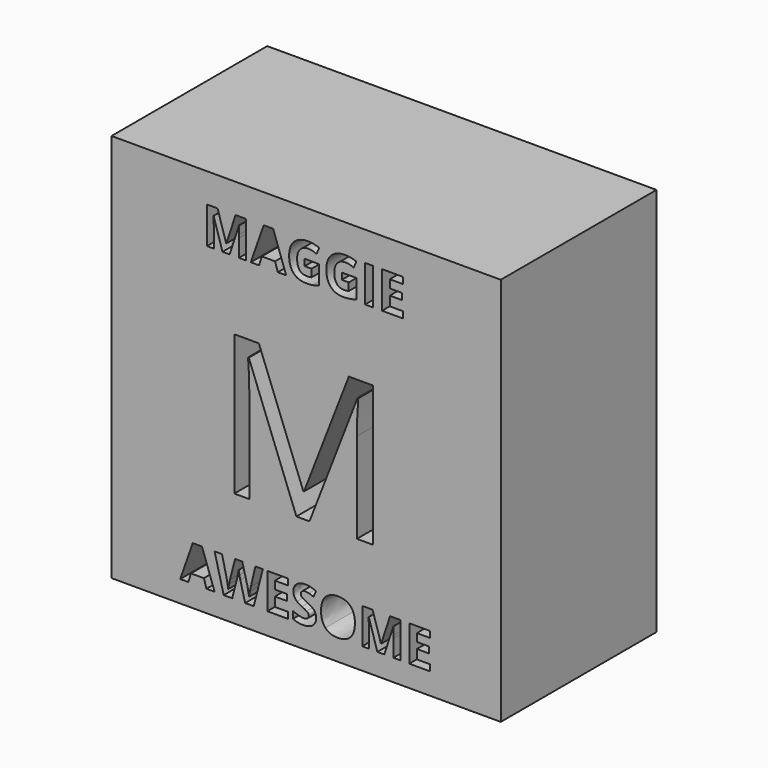
from build123d import *

# Parameters (mm, degrees)
F0_W     = 25.4
F0_H     = 25.4
F0_W_2   = 0.5068648255
F0_H_2   = 2.3899539604
F1_DEPTH = 12.7


with BuildPart() as f1:
    # F0 (on Front) → F1 (new body)
    with BuildSketch(Plane.XZ):
        Rectangle(F0_W, F0_H)
        Polygon((-5.9738395503, -11.2961307168), (-6.5043327995, -11.2961307168), (-6.6725255826, -10.7432795145), (-7.5190789861, -10.7432795145), (-7.6872717691, -11.2961307168), (-8.2177650183, -11.2961307168), (-7.3981427856, -8.9648059778), (-6.7965105948, -8.9648059778), align=None, mode=Mode.SUBTRACT)
        with BuildLine():
            Line((-2.8294983373, -8.9744605484), (-3.4204596868, -11.2961307168))
            Line((-3.4204596868, -11.2961307168), (-3.9809329185, -11.2961307168))
            Line((-3.9809329185, -11.2961307168), (-4.2954686669, -10.0766060059))
            add(Edge.make_bspline(
                [(-4.2954686669, -10.0766060059), (-4.312745267, -10.011564688), (-4.3549204966, -9.8075483666)],
                knots=[0, 0, 0, 1, 1, 1], degree=2))
            add(Edge.make_bspline(
                [(-4.3549204966, -9.8075483666), (-4.3970957261, -9.6035320451), (-4.4031933497, -9.5334093742)],
                knots=[0, 0, 0, 1, 1, 1], degree=2))
            add(Edge.make_bspline(
                [(-4.4031933497, -9.5334093742), (-4.4128479203, -9.6192842393), (-4.4509580675, -9.8090727724)],
                knots=[0, 0, 0, 1, 1, 1], degree=2))
            add(Edge.make_bspline(
                [(-4.4509580675, -9.8090727724), (-4.4890682148, -9.9988613056), (-4.5099017619, -10.0796548177)],
                knots=[0, 0, 0, 1, 1, 1], degree=2))
            Line((-4.5099017619, -10.0796548177), (-4.8224049691, -11.2961307168))
            Line((-4.8224049691, -11.2961307168), (-5.3813537949, -11.2961307168))
            Line((-5.3813537949, -11.2961307168), (-5.9738395503, -8.9744605484))
            Line((-5.9738395503, -8.9744605484), (-5.489586613, -8.9744605484))
            Line((-5.489586613, -8.9744605484), (-5.1923274647, -10.2417499772))
            add(Edge.make_bspline(
                [(-5.1923274647, -10.2417499772), (-5.1145827644, -10.5928714668), (-5.0800295642, -10.8499879267)],
                knots=[0, 0, 0, 1, 1, 1], degree=2))
            add(Edge.make_bspline(
                [(-5.0800295642, -10.8499879267), (-5.0703749936, -10.759539844), (-5.0360758611, -10.5697513109)],
                knots=[0, 0, 0, 1, 1, 1], degree=2))
            add(Edge.make_bspline(
                [(-5.0360758611, -10.5697513109), (-5.0017767286, -10.3799627777), (-4.9717967462, -10.2752869067)],
                knots=[0, 0, 0, 1, 1, 1], degree=2))
            Line((-4.9717967462, -10.2752869067), (-4.6333786389, -8.9744605484))
            Line((-4.6333786389, -8.9744605484), (-4.1684348428, -8.9744605484))
            Line((-4.1684348428, -8.9744605484), (-3.8300167356, -10.2752869067))
            add(Edge.make_bspline(
                [(-3.8300167356, -10.2752869067), (-3.8076587825, -10.3621780424), (-3.7743759206, -10.5418038696)],
                knots=[0, 0, 0, 1, 1, 1], degree=2))
            add(Edge.make_bspline(
                [(-3.7743759206, -10.5418038696), (-3.7410930587, -10.7214296968), (-3.7238164587, -10.8499879267)],
                knots=[0, 0, 0, 1, 1, 1], degree=2))
            add(Edge.make_bspline(
                [(-3.7238164587, -10.8499879267), (-3.7080642645, -10.7260029145), (-3.673002929, -10.5410416666)],
                knots=[0, 0, 0, 1, 1, 1], degree=2))
            add(Edge.make_bspline(
                [(-3.673002929, -10.5410416666), (-3.6379415936, -10.3560804188), (-3.609486017, -10.2417499772)],
                knots=[0, 0, 0, 1, 1, 1], degree=2))
            Line((-3.609486017, -10.2417499772), (-3.3142594099, -8.9744605484))
            Line((-3.3142594099, -8.9744605484), (-2.8294983373, -8.9744605484))
        make_face(mode=Mode.SUBTRACT)
        Polygon((-1.2004165777, -10.8896224798), (-1.2004165777, -11.2961307168), (-2.537320542, -11.2961307168), (-2.537320542, -8.9744605484), (-1.2004165777, -8.9744605484), (-1.2004165777, -9.3779199736), (-2.04493744, -9.3779199736), (-2.04493744, -9.8875796757), (-1.2588521367, -9.8875796757), (-1.2588521367, -10.2910391009), (-2.04493744, -10.2910391009), (-2.04493744, -10.8896224798), align=None, mode=Mode.SUBTRACT)
        with BuildLine():
            add(Edge.make_bspline(
                [(0.5335951206, -10.2679189449), (0.6542772535, -10.4241705485), (0.6542772535, -10.6513070259)],
                knots=[0, 0, 0, 1, 1, 1], degree=2))
            add(Edge.make_bspline(
                [(0.6542772535, -10.6513070259), (0.6542772535, -10.9658427743), (0.427902979, -11.1469930074)],
                knots=[0, 0, 0, 1, 1, 1], degree=2))
            add(Edge.make_bspline(
                [(0.427902979, -11.1469930074), (0.2015287046, -11.3281432405), (-0.2014225853, -11.3281432405)],
                knots=[0, 0, 0, 1, 1, 1], degree=2))
            add(Edge.make_bspline(
                [(-0.2014225853, -11.3281432405), (-0.5733776222, -11.3281432405), (-0.8589496586, -11.1878978987)],
                knots=[0, 0, 0, 1, 1, 1], degree=2))
            Line((-0.8589496586, -11.1878978987), (-0.8589496586, -10.7305761321))
            add(Edge.make_bspline(
                [(-0.8589496586, -10.7305761321), (-0.6241911518, -10.8357601384), (-0.4613337893, -10.8784435033)],
                knots=[0, 0, 0, 1, 1, 1], degree=2))
            add(Edge.make_bspline(
                [(-0.4613337893, -10.8784435033), (-0.2984764269, -10.9211268682), (-0.1633124381, -10.9211268682)],
                knots=[0, 0, 0, 1, 1, 1], degree=2))
            add(Edge.make_bspline(
                [(-0.1633124381, -10.9211268682), (-0.0017254139, -10.9211268682), (0.0849116541, -10.8593884297)],
                knots=[0, 0, 0, 1, 1, 1], degree=2))
            add(Edge.make_bspline(
                [(0.0849116541, -10.8593884297), (0.1715487221, -10.7976499912), (0.1715487221, -10.6751893848)],
                knots=[0, 0, 0, 1, 1, 1], degree=2))
            add(Edge.make_bspline(
                [(0.1715487221, -10.6751893848), (0.1715487221, -10.6070992551), (0.1334385749, -10.553745049)],
                knots=[0, 0, 0, 1, 1, 1], degree=2))
            add(Edge.make_bspline(
                [(0.1334385749, -10.553745049), (0.0953284277, -10.5003908429), (0.0213947421, -10.4513557869)],
                knots=[0, 0, 0, 1, 1, 1], degree=2))
            add(Edge.make_bspline(
                [(0.0213947421, -10.4513557869), (-0.0525389435, -10.4023207308), (-0.2796754209, -10.2940879127)],
                knots=[0, 0, 0, 1, 1, 1], degree=2))
            add(Edge.make_bspline(
                [(-0.2796754209, -10.2940879127), (-0.4920759748, -10.1939852593), (-0.5985303193, -10.1020127707)],
                knots=[0, 0, 0, 1, 1, 1], degree=2))
            add(Edge.make_bspline(
                [(-0.5985303193, -10.1020127707), (-0.7049846639, -10.0100402821), (-0.7685015759, -9.8875796757)],
                knots=[0, 0, 0, 1, 1, 1], degree=2))
            add(Edge.make_bspline(
                [(-0.7685015759, -9.8875796757), (-0.8320184879, -9.7651190693), (-0.8320184879, -9.6020076392)],
                knots=[0, 0, 0, 1, 1, 1], degree=2))
            add(Edge.make_bspline(
                [(-0.8320184879, -9.6020076392), (-0.8320184879, -9.2935695144), (-0.6231748812, -9.1175006343)],
                knots=[0, 0, 0, 1, 1, 1], degree=2))
            add(Edge.make_bspline(
                [(-0.6231748812, -9.1175006343), (-0.4143312744, -8.9414317542), (-0.0459331847, -8.9414317542)],
                knots=[0, 0, 0, 1, 1, 1], degree=2))
            add(Edge.make_bspline(
                [(-0.0459331847, -8.9414317542), (0.1349629808, -8.9414317542), (0.2993447491, -8.984115119)],
                knots=[0, 0, 0, 1, 1, 1], degree=2))
            add(Edge.make_bspline(
                [(0.2993447491, -8.984115119), (0.4637265174, -9.0267984839), (0.643098277, -9.1045431842)],
                knots=[0, 0, 0, 1, 1, 1], degree=2))
            Line((0.643098277, -9.1045431842), (0.4845600646, -9.4876771976))
            add(Edge.make_bspline(
                [(0.4845600646, -9.4876771976), (0.2985825461, -9.4114569032), (0.1771382103, -9.381222853)],
                knots=[0, 0, 0, 1, 1, 1], degree=2))
            add(Edge.make_bspline(
                [(0.1771382103, -9.381222853), (0.0556938746, -9.3509888029), (-0.0616853789, -9.3509888029)],
                knots=[0, 0, 0, 1, 1, 1], degree=2))
            add(Edge.make_bspline(
                [(-0.0616853789, -9.3509888029), (-0.2014225853, -9.3509888029), (-0.2761184739, -9.4160301208)],
                knots=[0, 0, 0, 1, 1, 1], degree=2))
            add(Edge.make_bspline(
                [(-0.2761184739, -9.4160301208), (-0.3508143624, -9.4810714387), (-0.3508143624, -9.5857473098)],
                knots=[0, 0, 0, 1, 1, 1], degree=2))
            add(Edge.make_bspline(
                [(-0.3508143624, -9.5857473098), (-0.3508143624, -9.6507886277), (-0.3205803123, -9.6993155485)],
                knots=[0, 0, 0, 1, 1, 1], degree=2))
            add(Edge.make_bspline(
                [(-0.3205803123, -9.6993155485), (-0.2903462622, -9.7478424692), (-0.2245427413, -9.7930665106)],
                knots=[0, 0, 0, 1, 1, 1], degree=2))
            add(Edge.make_bspline(
                [(-0.2245427413, -9.7930665106), (-0.1587392204, -9.838290552), (0.0871982629, -9.9556698054)],
                knots=[0, 0, 0, 1, 1, 1], degree=2))
            add(Edge.make_bspline(
                [(0.0871982629, -9.9556698054), (0.4129129878, -10.1116673413), (0.5335951206, -10.2679189449)],
                knots=[0, 0, 0, 1, 1, 1], degree=2))
        make_face(mode=Mode.SUBTRACT)
        with BuildLine():
            Line((0.2190144551, -5.2358102985), (-0.6381201492, -5.2358102985))
            Line((-0.6381201492, -5.2358102985), (-3.7422291134, 2.8749260273))
            Line((-3.7422291134, 2.8749260273), (-3.792295387, 2.8749260273))
            add(Edge.make_bspline(
                [(-3.792295387, 2.8749260273), (-3.7041787455, 1.9116509229), (-3.7041787455, 0.5838933466)],
                knots=[0, 0, 0, 1, 1, 1], degree=2))
            Line((-3.7041787455, 0.5838933466), (-3.7041787455, -5.2358102985))
            Line((-3.7041787455, -5.2358102985), (-4.6874803593, -5.2358102985))
            Line((-4.6874803593, -5.2358102985), (-4.6874803593, 3.9143018676))
            Line((-4.6874803593, 3.9143018676), (-3.0853596036, 3.9143018676))
            Line((-3.0853596036, 3.9143018676), (-0.1875236867, -3.6336895428))
            Line((-0.1875236867, -3.6336895428), (-0.1374574131, -3.6336895428))
            Line((-0.1374574131, -3.6336895428), (2.7844103151, 3.9143018676))
            Line((2.7844103151, 3.9143018676), (4.3745151652, 3.9143018676))
            Line((4.3745151652, 3.9143018676), (4.3745151652, -5.2358102985))
            Line((4.3745151652, -5.2358102985), (3.3111075136, -5.2358102985))
            Line((3.3111075136, -5.2358102985), (3.3111075136, 0.6599940825))
            add(Edge.make_bspline(
                [(3.3111075136, 0.6599940825), (3.3111075136, 1.6733354605), (3.3992241551, 2.8629101216)],
                knots=[0, 0, 0, 1, 1, 1], degree=2))
            Line((3.3992241551, 2.8629101216), (3.3491578815, 2.8629101216))
            Line((3.3491578815, 2.8629101216), (0.2190144551, -5.2358102985))
        make_face(mode=Mode.SUBTRACT)
        with BuildLine():
            add(Edge.make_bspline(
                [(2.8987108568, -9.2460588642), (3.1822503521, -9.5542429214), (3.1822503521, -10.1319927532)],
                knots=[0, 0, 0, 1, 1, 1], degree=2))
            add(Edge.make_bspline(
                [(3.1822503521, -10.1319927532), (3.1822503521, -10.7087263144), (2.896424248, -11.0184347774)],
                knots=[0, 0, 0, 1, 1, 1], degree=2))
            add(Edge.make_bspline(
                [(2.896424248, -11.0184347774), (2.6105981439, -11.3281432405), (2.0770560829, -11.3281432405)],
                knots=[0, 0, 0, 1, 1, 1], degree=2))
            add(Edge.make_bspline(
                [(2.0770560829, -11.3281432405), (1.5435140219, -11.3281432405), (1.2576879177, -11.0184347774)],
                knots=[0, 0, 0, 1, 1, 1], degree=2))
            add(Edge.make_bspline(
                [(1.2576879177, -11.0184347774), (0.9718618136, -10.7087263144), (0.9718618136, -10.1289439414)],
                knots=[0, 0, 0, 1, 1, 1], degree=2))
            add(Edge.make_bspline(
                [(0.9718618136, -10.1289439414), (0.9718618136, -9.5491615684), (1.2584501207, -9.2435181878)],
                knots=[0, 0, 0, 1, 1, 1], degree=2))
            add(Edge.make_bspline(
                [(1.2584501207, -9.2435181878), (1.5450384277, -8.9378748071), (2.0801048947, -8.9378748071)],
                knots=[0, 0, 0, 1, 1, 1], degree=2))
            add(Edge.make_bspline(
                [(2.0801048947, -8.9378748071), (2.6151713616, -8.9378748071), (2.8987108568, -9.2460588642)],
                knots=[0, 0, 0, 1, 1, 1], degree=2))
        make_face(mode=Mode.SUBTRACT)
        with BuildLine():
            Line((5.0974122836, -11.2961307168), (4.6461881405, -11.2961307168))
            Line((4.6461881405, -11.2961307168), (4.0872393147, -9.4749738152))
            Line((4.0872393147, -9.4749738152), (4.0730115264, -9.4749738152))
            add(Edge.make_bspline(
                [(4.0730115264, -9.4749738152), (4.1034996442, -10.0303656939), (4.1034996442, -10.2163432124)],
                knots=[0, 0, 0, 1, 1, 1], degree=2))
            Line((4.1034996442, -10.2163432124), (4.1034996442, -11.2961307168))
            Line((4.1034996442, -11.2961307168), (3.6634544776, -11.2961307168))
            Line((3.6634544776, -11.2961307168), (3.6634544776, -8.9744605484))
            Line((3.6634544776, -8.9744605484), (4.3336849333, -8.9744605484))
            Line((4.3336849333, -8.9744605484), (4.8829791886, -10.7498852734))
            Line((4.8829791886, -10.7498852734), (4.8926337592, -10.7498852734))
            Line((4.8926337592, -10.7498852734), (5.4754649439, -8.9744605484))
            Line((5.4754649439, -8.9744605484), (6.1451872643, -8.9744605484))
            Line((6.1451872643, -8.9744605484), (6.1451872643, -11.2961307168))
            Line((6.1451872643, -11.2961307168), (5.6863410919, -11.2961307168))
            Line((5.6863410919, -11.2961307168), (5.6863410919, -10.1970340711))
            add(Edge.make_bspline(
                [(5.6863410919, -10.1970340711), (5.6863410919, -10.1192893708), (5.6888817683, -10.0176623115)],
                knots=[0, 0, 0, 1, 1, 1], degree=2))
            add(Edge.make_bspline(
                [(5.6888817683, -10.0176623115), (5.6914224448, -9.9160352523), (5.7102234508, -9.478022627)],
                knots=[0, 0, 0, 1, 1, 1], degree=2))
            Line((5.7102234508, -9.478022627), (5.6959956625, -9.478022627))
            Line((5.6959956625, -9.478022627), (5.0974122836, -11.2961307168))
        make_face(mode=Mode.SUBTRACT)
        Polygon((8.0664468193, -10.8896224798), (8.0664468193, -11.2961307168), (6.729542855, -11.2961307168), (6.729542855, -8.9744605484), (8.0664468193, -8.9744605484), (8.0664468193, -9.3779199736), (7.221925957, -9.3779199736), (7.221925957, -9.8875796757), (8.0080112602, -9.8875796757), (8.0080112602, -10.2910391009), (7.221925957, -10.2910391009), (7.221925957, -10.8896224798), align=None, mode=Mode.SUBTRACT)
        with BuildLine():
            Line((-4.9946491276, 8.3999121562), (-5.4591444475, 8.3999121562))
            Line((-5.4591444475, 8.3999121562), (-6.0345327943, 10.2746320061))
            Line((-6.0345327943, 10.2746320061), (-6.0491790432, 10.2746320061))
            add(Edge.make_bspline(
                [(-6.0491790432, 10.2746320061), (-6.0177942242, 9.7029052215), (-6.0177942242, 9.5114578261)],
                knots=[0, 0, 0, 1, 1, 1], degree=2))
            Line((-6.0177942242, 9.5114578261), (-6.0177942242, 8.3999121562))
            Line((-6.0177942242, 8.3999121562), (-6.4707817773, 8.3999121562))
            Line((-6.4707817773, 8.3999121562), (-6.4707817773, 10.7898661166))
            Line((-6.4707817773, 10.7898661166), (-5.7808388414, 10.7898661166))
            Line((-5.7808388414, 10.7898661166), (-5.2153890206, 8.9622234951))
            Line((-5.2153890206, 8.9622234951), (-5.2054504946, 8.9622234951))
            Line((-5.2054504946, 8.9622234951), (-4.605477373, 10.7898661166))
            Line((-4.605477373, 10.7898661166), (-3.9160575175, 10.7898661166))
            Line((-3.9160575175, 10.7898661166), (-3.9160575175, 8.3999121562))
            Line((-3.9160575175, 8.3999121562), (-4.3883990422, 8.3999121562))
            Line((-4.3883990422, 8.3999121562), (-4.3883990422, 9.5313348781))
            add(Edge.make_bspline(
                [(-4.3883990422, 9.5313348781), (-4.3883990422, 9.6113661663), (-4.3857836406, 9.7159822294)],
                knots=[0, 0, 0, 1, 1, 1], degree=2))
            add(Edge.make_bspline(
                [(-4.3857836406, 9.7159822294), (-4.383168239, 9.8205982924), (-4.3638142674, 10.2714935242)],
                knots=[0, 0, 0, 1, 1, 1], degree=2))
            Line((-4.3638142674, 10.2714935242), (-4.3784605162, 10.2714935242))
            Line((-4.3784605162, 10.2714935242), (-4.9946491276, 8.3999121562))
        make_face(mode=Mode.SUBTRACT)
        Polygon((-1.3053636641, 8.3999121562), (-1.8514595132, 8.3999121562), (-2.0245990975, 8.9690235392), (-2.8960509028, 8.9690235392), (-3.0691904871, 8.3999121562), (-3.6152863362, 8.3999121562), (-2.7715577877, 10.7998046426), (-2.1522306945, 10.7998046426), align=None, mode=Mode.SUBTRACT)
        with BuildLine():
            Line((-0.0975712161, 9.3200104307), (-0.0975712161, 9.7421362451))
            Line((-0.0975712161, 9.7421362451), (0.8507733954, 9.7421362451))
            Line((0.8507733954, 9.7421362451), (0.8507733954, 8.5029589783))
            add(Edge.make_bspline(
                [(0.8507733954, 8.5029589783), (0.6200949764, 8.4276354129), (0.4166167338, 8.3972967546)],
                knots=[0, 0, 0, 1, 1, 1], degree=2))
            add(Edge.make_bspline(
                [(0.4166167338, 8.3972967546), (0.2131384911, 8.3669580963), (0.0007678831, 8.3669580963)],
                knots=[0, 0, 0, 1, 1, 1], degree=2))
            add(Edge.make_bspline(
                [(0.0007678831, 8.3669580963), (-0.5400971628, 8.3669580963), (-0.8254374748, 8.684990928)],
                knots=[0, 0, 0, 1, 1, 1], degree=2))
            add(Edge.make_bspline(
                [(-0.8254374748, 8.684990928), (-1.1107777868, 9.0030237597), (-1.1107777868, 9.5982891584)],
                knots=[0, 0, 0, 1, 1, 1], degree=2))
            add(Edge.make_bspline(
                [(-1.1107777868, 9.5982891584), (-1.1107777868, 10.1768159871), (-0.7796679472, 10.5003411621)],
                knots=[0, 0, 0, 1, 1, 1], degree=2))
            add(Edge.make_bspline(
                [(-0.7796679472, 10.5003411621), (-0.4485581077, 10.8238663371), (0.1378149257, 10.8238663371)],
                knots=[0, 0, 0, 1, 1, 1], degree=2))
            add(Edge.make_bspline(
                [(0.1378149257, 10.8238663371), (0.5060634677, 10.8238663371), (0.8476349135, 10.6768807685)],
                knots=[0, 0, 0, 1, 1, 1], degree=2))
            Line((0.8476349135, 10.6768807685), (0.679203052, 10.2714935242))
            add(Edge.make_bspline(
                [(0.679203052, 10.2714935242), (0.4176628944, 10.402263603), (0.1346764438, 10.402263603)],
                knots=[0, 0, 0, 1, 1, 1], degree=2))
            add(Edge.make_bspline(
                [(0.1346764438, 10.402263603), (-0.1938179941, 10.402263603), (-0.3915423533, 10.1815237099)],
                knots=[0, 0, 0, 1, 1, 1], degree=2))
            add(Edge.make_bspline(
                [(-0.3915423533, 10.1815237099), (-0.5892667125, 9.9607838169), (-0.5892667125, 9.5883506324)],
                knots=[0, 0, 0, 1, 1, 1], degree=2))
            add(Edge.make_bspline(
                [(-0.5892667125, 9.5883506324), (-0.5892667125, 9.1991788779), (-0.4299887565, 8.9941313943)],
                knots=[0, 0, 0, 1, 1, 1], degree=2))
            add(Edge.make_bspline(
                [(-0.4299887565, 8.9941313943), (-0.2707108005, 8.7890839107), (0.0331988627, 8.7890839107)],
                knots=[0, 0, 0, 1, 1, 1], degree=2))
            add(Edge.make_bspline(
                [(0.0331988627, 8.7890839107), (0.1922152785, 8.7890839107), (0.3554163369, 8.8215148903)],
                knots=[0, 0, 0, 1, 1, 1], degree=2))
            Line((0.3554163369, 8.8215148903), (0.3554163369, 9.3200104307))
            Line((0.3554163369, 9.3200104307), (-0.0975712161, 9.3200104307))
        make_face(mode=Mode.SUBTRACT)
        with BuildLine():
            Line((2.3263829648, 9.3200104307), (2.3263829648, 9.7421362451))
            Line((2.3263829648, 9.7421362451), (3.2747275764, 9.7421362451))
            Line((3.2747275764, 9.7421362451), (3.2747275764, 8.5029589783))
            add(Edge.make_bspline(
                [(3.2747275764, 8.5029589783), (3.0440491573, 8.4276354129), (2.8405709147, 8.3972967546)],
                knots=[0, 0, 0, 1, 1, 1], degree=2))
            add(Edge.make_bspline(
                [(2.8405709147, 8.3972967546), (2.6370926721, 8.3669580963), (2.4247220641, 8.3669580963)],
                knots=[0, 0, 0, 1, 1, 1], degree=2))
            add(Edge.make_bspline(
                [(2.4247220641, 8.3669580963), (1.8838570181, 8.3669580963), (1.5985167061, 8.684990928)],
                knots=[0, 0, 0, 1, 1, 1], degree=2))
            add(Edge.make_bspline(
                [(1.5985167061, 8.684990928), (1.3131763941, 9.0030237597), (1.3131763941, 9.5982891584)],
                knots=[0, 0, 0, 1, 1, 1], degree=2))
            add(Edge.make_bspline(
                [(1.3131763941, 9.5982891584), (1.3131763941, 10.1768159871), (1.6442862337, 10.5003411621)],
                knots=[0, 0, 0, 1, 1, 1], degree=2))
            add(Edge.make_bspline(
                [(1.6442862337, 10.5003411621), (1.9753960732, 10.8238663371), (2.5617691067, 10.8238663371)],
                knots=[0, 0, 0, 1, 1, 1], degree=2))
            add(Edge.make_bspline(
                [(2.5617691067, 10.8238663371), (2.9300176486, 10.8238663371), (3.2715890945, 10.6768807685)],
                knots=[0, 0, 0, 1, 1, 1], degree=2))
            Line((3.2715890945, 10.6768807685), (3.1031572329, 10.2714935242))
            add(Edge.make_bspline(
                [(3.1031572329, 10.2714935242), (2.8416170753, 10.402263603), (2.5586306248, 10.402263603)],
                knots=[0, 0, 0, 1, 1, 1], degree=2))
            add(Edge.make_bspline(
                [(2.5586306248, 10.402263603), (2.2301361868, 10.402263603), (2.0324118276, 10.1815237099)],
                knots=[0, 0, 0, 1, 1, 1], degree=2))
            add(Edge.make_bspline(
                [(2.0324118276, 10.1815237099), (1.8346874684, 9.9607838169), (1.8346874684, 9.5883506324)],
                knots=[0, 0, 0, 1, 1, 1], degree=2))
            add(Edge.make_bspline(
                [(1.8346874684, 9.5883506324), (1.8346874684, 9.1991788779), (1.9939654244, 8.9941313943)],
                knots=[0, 0, 0, 1, 1, 1], degree=2))
            add(Edge.make_bspline(
                [(1.9939654244, 8.9941313943), (2.1532433804, 8.7890839107), (2.4571530436, 8.7890839107)],
                knots=[0, 0, 0, 1, 1, 1], degree=2))
            add(Edge.make_bspline(
                [(2.4571530436, 8.7890839107), (2.6161694594, 8.7890839107), (2.7793705178, 8.8215148903)],
                knots=[0, 0, 0, 1, 1, 1], degree=2))
            Line((2.7793705178, 8.8215148903), (2.7793705178, 9.3200104307))
            Line((2.7793705178, 9.3200104307), (2.3263829648, 9.3200104307))
        make_face(mode=Mode.SUBTRACT)
        with Locations((4.0967482918, 9.5948891364)):
            Rectangle(F0_W_2, F0_H_2, mode=Mode.SUBTRACT)
        Polygon((6.3279473765, 8.8183764084), (6.3279473765, 8.3999121562), (4.9517230671, 8.3999121562), (4.9517230671, 10.7898661166), (6.3279473765, 10.7898661166), (6.3279473765, 10.3745403463), (5.4585878926, 10.3745403463), (5.4585878926, 9.8498907901), (6.2677931403, 9.8498907901), (6.2677931403, 9.4345650197), (5.4585878926, 9.4345650197), (5.4585878926, 8.8183764084), align=None, mode=Mode.SUBTRACT)
    extrude(amount=F1_DEPTH)


solid = f1.part
